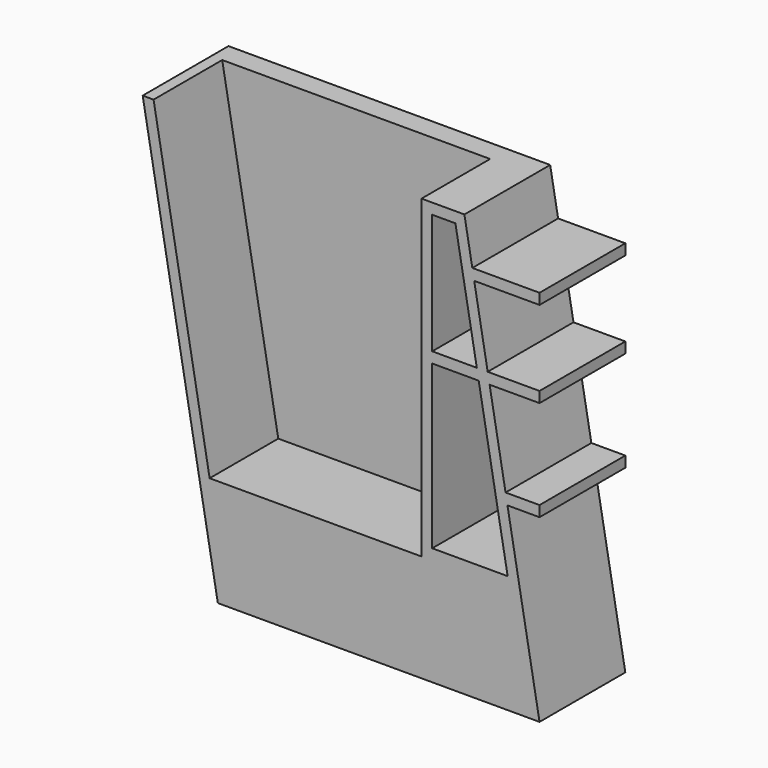
from build123d import *

# Parameters (mm, degrees)
F1_DEPTH  = 25.4
F3_DEPTH  = 101.6
F5_DEPTH  = 101.6
F7_DEPTH  = 101.6
F9_DEPTH  = 127
F11_DEPTH = 101.6
F13_DEPTH = 101.6


with BuildPart() as f1:
    # F0 (on Front) → F1 (new body)
    with BuildSketch(Plane.XZ):
        Polygon((-88.9854516805, 500.1455681991), (0, 0), (381, 0), (292.0145483195, 500.1455681991), align=None)
    extrude(amount=F1_DEPTH)

    # F2 (on face) → F3 (join)
    with BuildSketch(Plane.XZ.offset(25.4)):
        Polygon((-22.5957262885, 127), (0, 0), (381, 0), (358.4042737115, 127), align=None)
    extrude(amount=F3_DEPTH)

    # F4 (on face) → F5 (join)
    with BuildSketch(Plane.XZ.offset(25.4)):
        Polygon((292.0145483195, 500.1455681991), (241.2145483195, 500.1455681991), (241.2145483195, 127), (358.4042737115, 127), align=None)
    extrude(amount=F5_DEPTH)

    # F6 (on face) → F7 (cut)
    with BuildSketch(Plane.XZ.offset(127)):
        Polygon((281.3746764461, 487.4455681991), (253.9145483195, 487.4455681991), (253.9145483195, 139.7), (343.2452565805, 139.7), align=None)
    extrude(amount=-F7_DEPTH, mode=Mode.SUBTRACT)

    # F8 (on face) → F9 (join)
    with BuildSketch(Plane.XZ.offset(127)):
        Polygon((301.3966677113, 447.4130670373), (303.6562403401, 434.7130670373), (381, 434.7130670373), (381, 447.4130670373), align=None)
        Polygon((319.6076049893, 345.0579134663), (321.8671776181, 332.3579134663), (381, 332.3579134663), (381, 345.0579134663), align=None)
        Polygon((343.0322212888, 213.3991107327), (381, 213.3991107327), (381, 226.0991107327), (340.77264866, 226.0991107327), align=None)
    extrude(amount=-F9_DEPTH)

    # F10 (on face) → F11 (join)
    with BuildSketch(Plane.XZ.offset(25.4)):
        Polygon((308.9677331159, 332.3579134663), (306.7081604871, 345.0579134663), (253.9145483195, 345.0579134663), (253.9145483195, 332.3579134663), align=None)
    extrude(amount=F11_DEPTH)

    # F12 (on face) → F13 (join)
    with BuildSketch(Plane.XZ.offset(25.4)):
        Polygon((-9.6962817863, 127), (-76.0860071783, 500.1455681991), (-88.9854516805, 500.1455681991), (-22.5957262885, 127), align=None)
    extrude(amount=F13_DEPTH)


solid = f1.part
